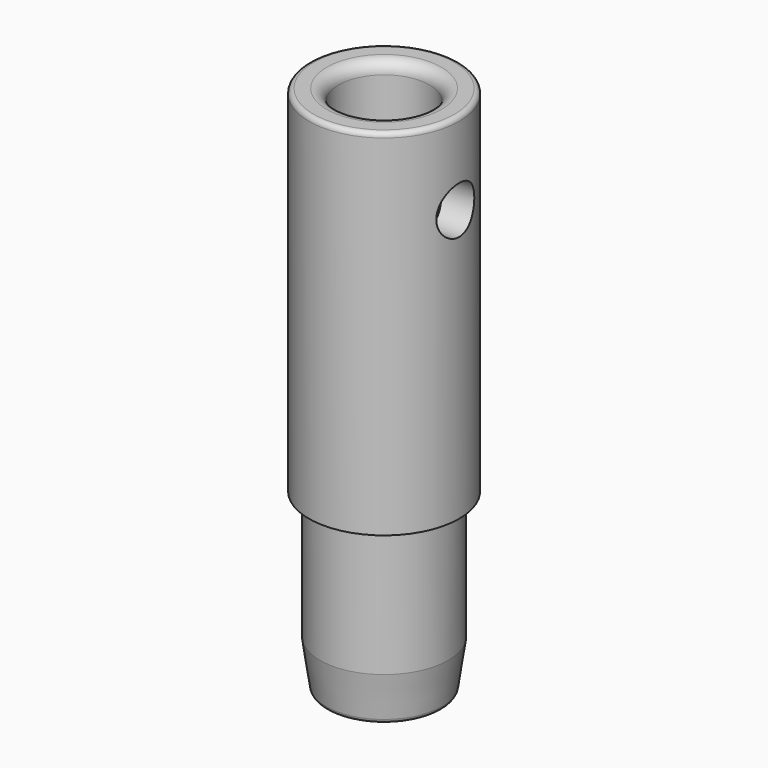
from build123d import *

# Parameters (mm, degrees)
F2_R     = 1.27
F3_R     = 0.508
F4_R     = 2.5527
F5_DEPTH = 12.7
F6_R     = 0.508


with BuildPart() as f1:
    # F0 (on Front) → F1 (revolve)
    with BuildSketch(Plane.XZ):
        Polygon((6.1595, -8.036257), (6.8961, -3.009944), (6.8961, 10.759743), (8.0645, 10.759743), (8.0645, 48.859743), (4.8895, 48.859743), (4.8895, -8.036257), align=None)
    revolve(axis=Axis((0, 0, 17.241214), (0, 0, -1)))

    # F2
    f2_edges = [f1.edges().sort_by_distance(p)[0] for p in [
        (-4.8895, 0, 48.859743),
    ]]
    fillet(f2_edges, radius=F2_R)

    # F3
    f3_edges = [f1.edges().sort_by_distance(p)[0] for p in [
        (-8.0645, 0, 48.859743),
    ]]
    fillet(f3_edges, radius=F3_R)

    # F4 (on Right) → F5 (cut, symmetric)
    with BuildSketch(Plane.YZ):
        with Locations((0, 39.969743)):
            Circle(F4_R)
    extrude(amount=F5_DEPTH, both=True, mode=Mode.SUBTRACT)

    # F6
    f6_edges = [f1.edges().sort_by_distance(p)[0] for p in [
        (-6.1595, 0, -8.036257),
    ]]
    fillet(f6_edges, radius=F6_R)


solid = f1.part
